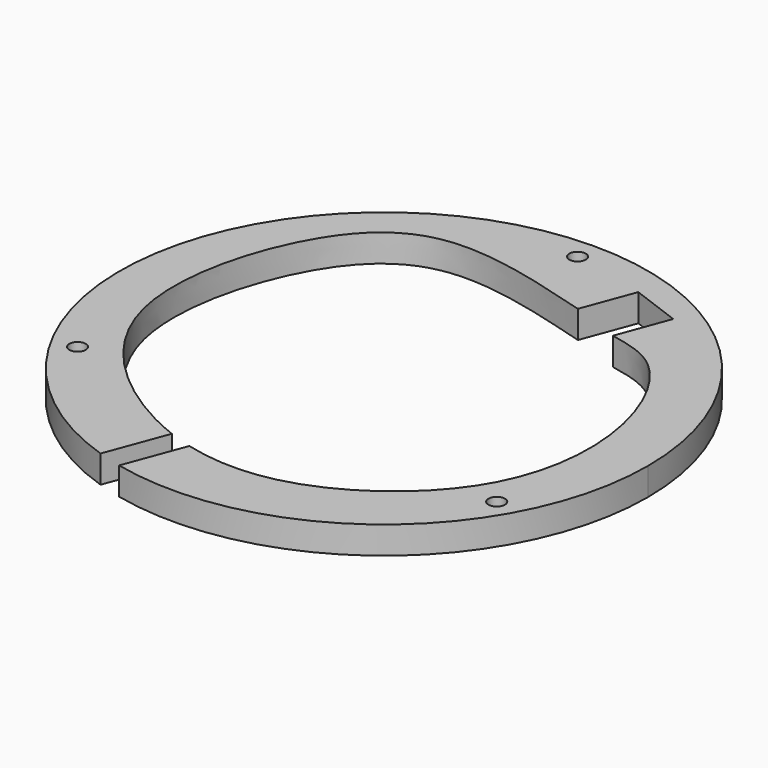
from build123d import *

# Parameters (mm, degrees)
F0_R     = 60.96
F0_R_2   = 1.905
F1_DEPTH = 6.35
F3_DEPTH = 25.4


with BuildPart() as f1:
    # F0 (on Top) → F1 (new body)
    with BuildSketch(Plane.XY):
        Circle(F0_R)
        with Locations((-48.3934995635, -27.94)):
            Circle(F0_R_2, mode=Mode.SUBTRACT)
        with Locations((48.3934995635, -27.94)):
            Circle(F0_R_2, mode=Mode.SUBTRACT)
        with Locations((0, 55.88)):
            Circle(F0_R_2, mode=Mode.SUBTRACT)
    extrude(amount=F1_DEPTH)

    # F2 (on face) → F3 (cut)
    with BuildSketch(Plane.XY.offset(6.35)):
        with BuildLine():
            Line((24.257048546, 35.7339580402), (28.6841863358, 47.637337854))
            Line((28.6841863358, 47.637337854), (17.2004320021, 51.9084073799))
            Line((17.2004320021, 51.9084073799), (12.7732942124, 40.0050275662))
            add(Edge.make_bspline(
                [(12.7732942124, 40.0050275662), (0.0323857641, 43.6974020419), (-22.8808397113, 50.3377612632), (-44.0539719648, 34.3739986283), (-56.469854973, -12.1145744786), (-30.9072056586, -36.1452951273), (-16.319770834, -42.8984529727), (-13.9138982015, -43.8210497444)],
                knots=[0, 0, 0, 0, 0.1197791492, 0.2154105937, 0.3460738975, 0.4751408094, 0.5004322856, 0.5004322856, 0.5004322856, 0.5004322856], degree=3))
            add(Edge.make_bspline(
                [(-13.9138982015, -43.8210497444), (-12.1078879679, -44.5136130948), (-10.2930109225, -45.1025475054), (-8.4710548195, -45.5811639146)],
                knots=[0.5004322856, 0.5004322856, 0.5004322856, 0.5004322856, 0.5194177731, 0.5194177731, 0.5194177731, 0.5194177731], degree=3))
            add(Edge.make_bspline(
                [(-8.4710548195, -45.5811639146), (-1.4604668232, -47.4228012886), (17.6868438305, -47.983293882), (48.2189338992, -25.6416429446), (50.1631563842, 10.2902696592), (37.4873512481, 33.0872342621), (28.1546833673, 34.9542356868), (24.257048546, 35.7339580402)],
                knots=[0.5194177731, 0.5194177731, 0.5194177731, 0.5194177731, 0.5924708125, 0.7160011499, 0.8325366704, 0.9300617023, 1, 1, 1, 1], degree=3))
        make_face()
        with BuildLine():
            Line((-13.6178436033, -59.4194912095), (-8.4710548195, -45.5811639146))
            add(Edge.make_bspline(
                [(-13.9138982015, -43.8210497444), (-12.1078879679, -44.5136130948), (-10.2930109225, -45.1025475054), (-8.4710548195, -45.5811639146)],
                knots=[0.5004322856, 0.5004322856, 0.5004322856, 0.5004322856, 0.5194177731, 0.5194177731, 0.5194177731, 0.5194177731], degree=3))
            Line((-13.9138982015, -43.8210497444), (-19.1415476023, -57.8767894357))
            ThreePointArc((-19.1415476023, -57.8767894357), (-16.3978477316, -58.7131347295), (-13.6178436033, -59.4194912095))
        make_face()
    extrude(amount=-F3_DEPTH, mode=Mode.SUBTRACT)


solid = f1.part
